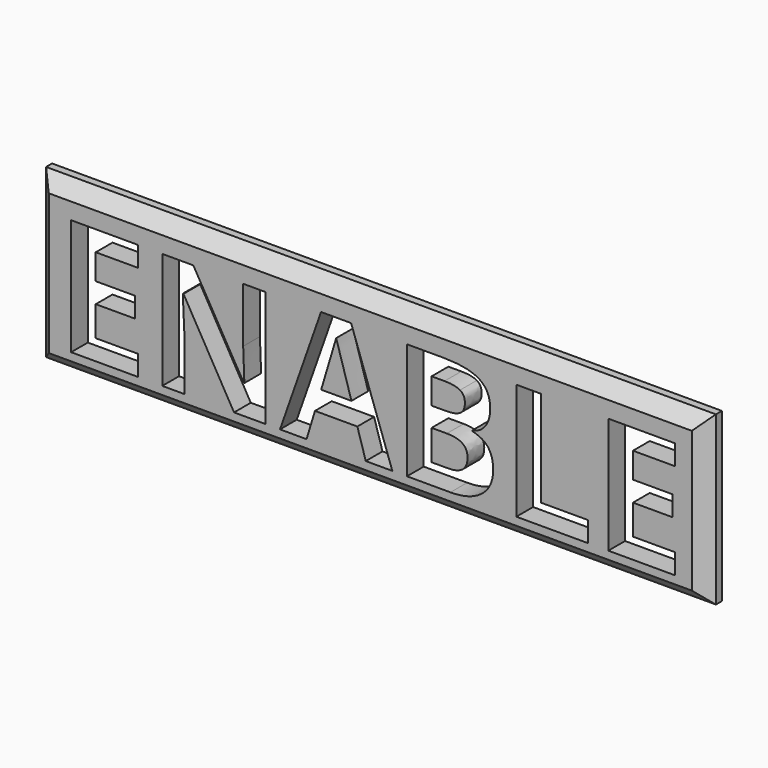
from build123d import *

# Parameters (mm, degrees)
F0_W     = 50.8
F0_H     = 12.7
F1_DEPTH = 1.5875
F2_SIZE  = 1.016


with BuildPart() as f1:
    # F0 (on Front) → F1 (new body)
    with BuildSketch(Plane.XZ):
        with Locations((-9.1615320603, 10.3311909613)):
            Rectangle(F0_W, F0_H)
        Polygon((-26.7756625529, 7.1471016441), (-26.7756625529, 5.6036988663), (-31.8515284383, 5.6036988663), (-31.8515284383, 14.4184579809), (-26.7756625529, 14.4184579809), (-26.7756625529, 12.886630724), (-29.9820818238, 12.886630724), (-29.9820818238, 10.9515894913), (-26.9975267022, 10.9515894913), (-26.9975267022, 9.4197622344), (-29.9820818238, 9.4197622344), (-29.9820818238, 7.1471016441), align=None, mode=Mode.SUBTRACT)
        with BuildLine():
            Line((-17.117819671, 14.4184579809), (-17.117819671, 5.6036988663))
            Line((-17.117819671, 5.6036988663), (-19.4927306953, 5.6036988663))
            Line((-19.4927306953, 5.6036988663), (-23.3280865981, 12.2711988663))
            Line((-23.3280865981, 12.2711988663), (-23.3821056953, 12.2711988663))
            add(Edge.make_bspline(
                [(-23.3821056953, 12.2711988663), (-23.266350487, 10.5059319393), (-23.266350487, 9.7515938316)],
                knots=[0, 0, 0, 1, 1, 1], degree=2))
            Line((-23.266350487, 9.7515938316), (-23.266350487, 5.6036988663))
            Line((-23.266350487, 5.6036988663), (-24.9370839939, 5.6036988663))
            Line((-24.9370839939, 5.6036988663), (-24.9370839939, 14.4184579809))
            Line((-24.9370839939, 14.4184579809), (-22.5795362508, 14.4184579809))
            Line((-22.5795362508, 14.4184579809), (-18.751897362, 7.816552599))
            Line((-18.751897362, 7.816552599), (-18.7094537856, 7.816552599))
            add(Edge.make_bspline(
                [(-18.7094537856, 7.816552599), (-18.8001286988, 9.5355174427), (-18.8001286988, 10.2454827205)],
                knots=[0, 0, 0, 1, 1, 1], degree=2))
            Line((-18.8001286988, 10.2454827205), (-18.8001286988, 14.4184579809))
            Line((-18.8001286988, 14.4184579809), (-17.117819671, 14.4184579809))
        make_face(mode=Mode.SUBTRACT)
        Polygon((-7.4889155911, 5.6036988663), (-9.5030562161, 5.6036988663), (-10.1416391154, 7.7027266441), (-13.3557754001, 7.7027266441), (-13.9943582995, 5.6036988663), (-16.0084989245, 5.6036988663), (-12.8966130738, 14.4551137969), (-10.6123769626, 14.4551137969), align=None, mode=Mode.SUBTRACT)
        with BuildLine():
            Line((-6.3795948446, 5.6036988663), (-6.3795948446, 14.4184579809))
            Line((-6.3795948446, 14.4184579809), (-3.6361964071, 14.4184579809))
            add(Edge.make_bspline(
                [(-3.6361964071, 14.4184579809), (-1.7609620321, 14.4184579809), (-0.9140197578, 13.8850193959)],
                knots=[0, 0, 0, 1, 1, 1], degree=2))
            add(Edge.make_bspline(
                [(-0.9140197578, 13.8850193959), (-0.0670774835, 13.3515808108), (-0.0670774835, 12.188240967)],
                knots=[0, 0, 0, 1, 1, 1], degree=2))
            add(Edge.make_bspline(
                [(-0.0670774835, 12.188240967), (-0.0670774835, 11.3972470434), (-0.4374941501, 10.890818007)],
                knots=[0, 0, 0, 1, 1, 1], degree=2))
            add(Edge.make_bspline(
                [(-0.4374941501, 10.890818007), (-0.8079108168, 10.3843889705), (-1.4233426745, 10.2821385365)],
                knots=[0, 0, 0, 1, 1, 1], degree=2))
            Line((-1.4233426745, 10.2821385365), (-1.4233426745, 10.2223316788))
            add(Edge.make_bspline(
                [(-1.4233426745, 10.2223316788), (-0.5860466675, 10.035194092), (-0.2146653741, 9.5229772952)],
                knots=[0, 0, 0, 1, 1, 1], degree=2))
            add(Edge.make_bspline(
                [(-0.2146653741, 9.5229772952), (0.1567159193, 9.0107604983), (0.1567159193, 8.159959717)],
                knots=[0, 0, 0, 1, 1, 1], degree=2))
            add(Edge.make_bspline(
                [(0.1567159193, 8.159959717), (0.1567159193, 6.9541762969), (-0.7153066501, 6.2789375816)],
                knots=[0, 0, 0, 1, 1, 1], degree=2))
            add(Edge.make_bspline(
                [(-0.7153066501, 6.2789375816), (-1.5873292196, 5.6036988663), (-3.0825006606, 5.6036988663)],
                knots=[0, 0, 0, 1, 1, 1], degree=2))
            Line((-3.0825006606, 5.6036988663), (-6.3795948446, 5.6036988663))
        make_face(mode=Mode.SUBTRACT)
        Polygon((7.3605483846, 5.6036988663), (1.916195086, 5.6036988663), (1.916195086, 14.4184579809), (3.7856417005, 14.4184579809), (3.7856417005, 7.1471016441), (7.3605483846, 7.1471016441), align=None, mode=Mode.SUBTRACT)
        Polygon((13.9682415269, 7.1471016441), (13.9682415269, 5.6036988663), (8.8923756415, 5.6036988663), (8.8923756415, 14.4184579809), (13.9682415269, 14.4184579809), (13.9682415269, 12.886630724), (10.7618222561, 12.886630724), (10.7618222561, 10.9515894913), (13.7463773776, 10.9515894913), (13.7463773776, 9.4197622344), (10.7618222561, 9.4197622344), (10.7618222561, 7.1471016441), align=None, mode=Mode.SUBTRACT)
        with Locations((-9.1615320603, 10.3311909613)):
            Rectangle(F0_W, F0_H)
        Polygon((-26.7756625529, 7.1471016441), (-26.7756625529, 5.6036988663), (-31.8515284383, 5.6036988663), (-31.8515284383, 14.4184579809), (-26.7756625529, 14.4184579809), (-26.7756625529, 12.886630724), (-29.9820818238, 12.886630724), (-29.9820818238, 10.9515894913), (-26.9975267022, 10.9515894913), (-26.9975267022, 9.4197622344), (-29.9820818238, 9.4197622344), (-29.9820818238, 7.1471016441), align=None, mode=Mode.SUBTRACT)
        with BuildLine():
            Line((-17.117819671, 14.4184579809), (-17.117819671, 5.6036988663))
            Line((-17.117819671, 5.6036988663), (-19.4927306953, 5.6036988663))
            Line((-19.4927306953, 5.6036988663), (-23.3280865981, 12.2711988663))
            Line((-23.3280865981, 12.2711988663), (-23.3821056953, 12.2711988663))
            add(Edge.make_bspline(
                [(-23.3821056953, 12.2711988663), (-23.266350487, 10.5059319393), (-23.266350487, 9.7515938316)],
                knots=[0, 0, 0, 1, 1, 1], degree=2))
            Line((-23.266350487, 9.7515938316), (-23.266350487, 5.6036988663))
            Line((-23.266350487, 5.6036988663), (-24.9370839939, 5.6036988663))
            Line((-24.9370839939, 5.6036988663), (-24.9370839939, 14.4184579809))
            Line((-24.9370839939, 14.4184579809), (-22.5795362508, 14.4184579809))
            Line((-22.5795362508, 14.4184579809), (-18.751897362, 7.816552599))
            Line((-18.751897362, 7.816552599), (-18.7094537856, 7.816552599))
            add(Edge.make_bspline(
                [(-18.7094537856, 7.816552599), (-18.8001286988, 9.5355174427), (-18.8001286988, 10.2454827205)],
                knots=[0, 0, 0, 1, 1, 1], degree=2))
            Line((-18.8001286988, 10.2454827205), (-18.8001286988, 14.4184579809))
            Line((-18.8001286988, 14.4184579809), (-17.117819671, 14.4184579809))
        make_face(mode=Mode.SUBTRACT)
        Polygon((-7.4889155911, 5.6036988663), (-9.5030562161, 5.6036988663), (-10.1416391154, 7.7027266441), (-13.3557754001, 7.7027266441), (-13.9943582995, 5.6036988663), (-16.0084989245, 5.6036988663), (-12.8966130738, 14.4551137969), (-10.6123769626, 14.4551137969), align=None, mode=Mode.SUBTRACT)
        with BuildLine():
            Line((-6.3795948446, 5.6036988663), (-6.3795948446, 14.4184579809))
            Line((-6.3795948446, 14.4184579809), (-3.6361964071, 14.4184579809))
            add(Edge.make_bspline(
                [(-3.6361964071, 14.4184579809), (-1.7609620321, 14.4184579809), (-0.9140197578, 13.8850193959)],
                knots=[0, 0, 0, 1, 1, 1], degree=2))
            add(Edge.make_bspline(
                [(-0.9140197578, 13.8850193959), (-0.0670774835, 13.3515808108), (-0.0670774835, 12.188240967)],
                knots=[0, 0, 0, 1, 1, 1], degree=2))
            add(Edge.make_bspline(
                [(-0.0670774835, 12.188240967), (-0.0670774835, 11.3972470434), (-0.4374941501, 10.890818007)],
                knots=[0, 0, 0, 1, 1, 1], degree=2))
            add(Edge.make_bspline(
                [(-0.4374941501, 10.890818007), (-0.8079108168, 10.3843889705), (-1.4233426745, 10.2821385365)],
                knots=[0, 0, 0, 1, 1, 1], degree=2))
            Line((-1.4233426745, 10.2821385365), (-1.4233426745, 10.2223316788))
            add(Edge.make_bspline(
                [(-1.4233426745, 10.2223316788), (-0.5860466675, 10.035194092), (-0.2146653741, 9.5229772952)],
                knots=[0, 0, 0, 1, 1, 1], degree=2))
            add(Edge.make_bspline(
                [(-0.2146653741, 9.5229772952), (0.1567159193, 9.0107604983), (0.1567159193, 8.159959717)],
                knots=[0, 0, 0, 1, 1, 1], degree=2))
            add(Edge.make_bspline(
                [(0.1567159193, 8.159959717), (0.1567159193, 6.9541762969), (-0.7153066501, 6.2789375816)],
                knots=[0, 0, 0, 1, 1, 1], degree=2))
            add(Edge.make_bspline(
                [(-0.7153066501, 6.2789375816), (-1.5873292196, 5.6036988663), (-3.0825006606, 5.6036988663)],
                knots=[0, 0, 0, 1, 1, 1], degree=2))
            Line((-3.0825006606, 5.6036988663), (-6.3795948446, 5.6036988663))
        make_face(mode=Mode.SUBTRACT)
        Polygon((7.3605483846, 5.6036988663), (1.916195086, 5.6036988663), (1.916195086, 14.4184579809), (3.7856417005, 14.4184579809), (3.7856417005, 7.1471016441), (7.3605483846, 7.1471016441), align=None, mode=Mode.SUBTRACT)
        Polygon((13.9682415269, 7.1471016441), (13.9682415269, 5.6036988663), (8.8923756415, 5.6036988663), (8.8923756415, 14.4184579809), (13.9682415269, 14.4184579809), (13.9682415269, 12.886630724), (10.7618222561, 12.886630724), (10.7618222561, 10.9515894913), (13.7463773776, 10.9515894913), (13.7463773776, 9.4197622344), (10.7618222561, 9.4197622344), (10.7618222561, 7.1471016441), align=None, mode=Mode.SUBTRACT)
    extrude(amount=F1_DEPTH)

    # F2
    f2_edges = [f1.edges().sort_by_distance(p)[0] for p in [
        (-9.161532, -1.5875, 3.981191),
        (-34.561532, -1.5875, 10.331191),
        (-9.161532, -1.5875, 16.681191),
        (16.238468, -1.5875, 10.331191),
    ]]
    chamfer(f2_edges, length=F2_SIZE)


with BuildPart() as f1b:
    # F0 (on Front) → F1, piece 2 (new body)
    with BuildSketch(Plane.XZ):
        with BuildLine():
            Line((-3.3525961467, 9.4448425295), (-4.51014823, 9.4448425295))
            Line((-4.51014823, 9.4448425295), (-4.51014823, 7.1471016441))
            Line((-4.51014823, 7.1471016441), (-3.292789289, 7.1471016441))
            add(Edge.make_bspline(
                [(-3.292789289, 7.1471016441), (-2.5210879001, 7.1471016441), (-2.1535651137, 7.4422774254)],
                knots=[0, 0, 0, 1, 1, 1], degree=2))
            add(Edge.make_bspline(
                [(-2.1535651137, 7.4422774254), (-1.7860423272, 7.7374532066), (-1.7860423272, 8.3470973038)],
                knots=[0, 0, 0, 1, 1, 1], degree=2))
            add(Edge.make_bspline(
                [(-1.7860423272, 8.3470973038), (-1.7860423272, 9.4448425295), (-3.3525961467, 9.4448425295)],
                knots=[0, 0, 0, 1, 1, 1], degree=2))
        make_face()
    extrude(amount=F1_DEPTH)


with BuildPart() as f1c:
    # F0 (on Front) → F1, piece 3 (new body)
    with BuildSketch(Plane.XZ):
        with BuildLine():
            Line((-12.8850375529, 9.2692804636), (-10.589225921, 9.2692804636))
            add(Edge.make_bspline(
                [(-10.589225921, 9.2692804636), (-11.4747532647, 12.1207170955), (-11.5866499661, 12.4949922691)],
                knots=[0, 0, 0, 1, 1, 1], degree=2))
            add(Edge.make_bspline(
                [(-11.5866499661, 12.4949922691), (-11.6985466675, 12.8692674427), (-11.7467780043, 13.0853438316)],
                knots=[0, 0, 0, 1, 1, 1], degree=2))
            add(Edge.make_bspline(
                [(-11.7467780043, 13.0853438316), (-11.945491112, 12.3136424427), (-12.8850375529, 9.2692804636)],
                knots=[0, 0, 0, 1, 1, 1], degree=2))
        make_face()
    extrude(amount=F1_DEPTH)


with BuildPart() as f1d:
    # F0 (on Front) → F1, piece 4 (new body)
    with BuildSketch(Plane.XZ):
        with BuildLine():
            Line((-4.51014823, 12.886630724), (-4.51014823, 10.9265091962))
            Line((-4.51014823, 10.9265091962), (-3.4259077786, 10.9265091962))
            add(Edge.make_bspline(
                [(-3.4259077786, 10.9265091962), (-2.6657819106, 10.9265091962), (-2.3252686727, 11.1618781198)],
                knots=[0, 0, 0, 1, 1, 1], degree=2))
            add(Edge.make_bspline(
                [(-2.3252686727, 11.1618781198), (-1.9847554349, 11.3972470434), (-1.9847554349, 11.9393672691)],
                knots=[0, 0, 0, 1, 1, 1], degree=2))
            add(Edge.make_bspline(
                [(-1.9847554349, 11.9393672691), (-1.9847554349, 12.4467609323), (-2.3551721015, 12.6666958282)],
                knots=[0, 0, 0, 1, 1, 1], degree=2))
            add(Edge.make_bspline(
                [(-2.3551721015, 12.6666958282), (-2.7255887682, 12.886630724), (-3.5281582126, 12.886630724)],
                knots=[0, 0, 0, 1, 1, 1], degree=2))
            Line((-3.5281582126, 12.886630724), (-4.51014823, 12.886630724))
        make_face()
    extrude(amount=F1_DEPTH)


solid = Compound([f1.part, f1b.part, f1c.part, f1d.part])
